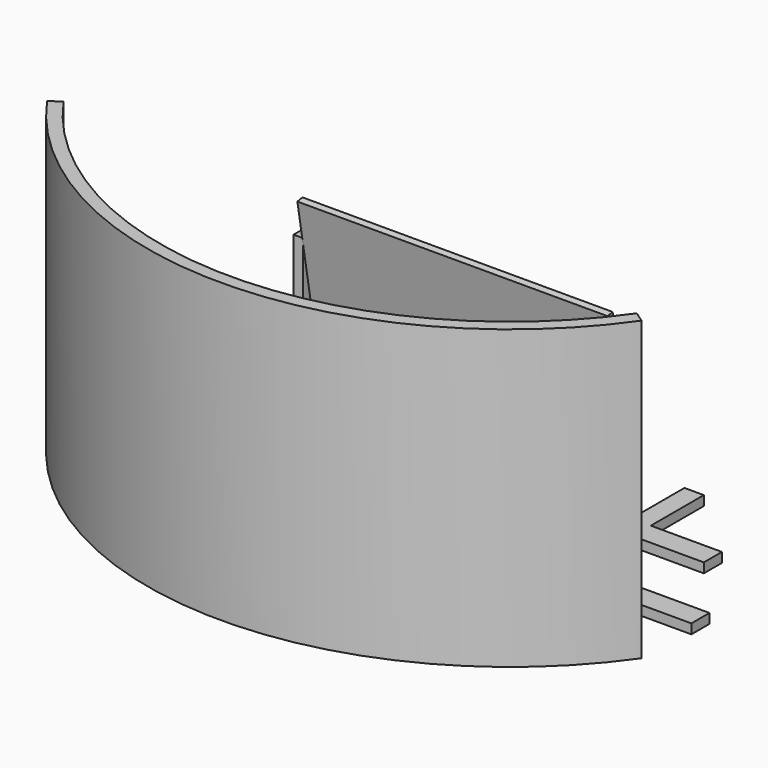
from build123d import *

# Parameters (mm, degrees)
F1_DEPTH  = 1168.4
F2_W      = 101.6
F2_H      = 1219.2
F3_DEPTH  = 25.4
F4_W      = 304.8
F4_H      = 304.8
F5_DEPTH  = 101.6
F6_R      = 31.75
F7_DEPTH  = 25.4
F8_W      = 2438.4
F8_H      = 88.9
F9_DEPTH  = 38.1
F10_W     = 76.2
F10_H     = 260.35
F10_W_2   = 1219.2
F10_H_2   = 88.9
F10_W_3   = 279.4
F11_DEPTH = 38.1
F12_W     = 38.1
F12_H     = 88.9
F13_DEPTH = 609.6
F14_R     = 12.7
F15_DEPTH = 1866.901
F19_W     = 1219.2
F19_H     = 698.5
F20_DEPTH = 12.7


with BuildPart() as f1:
    # F0 (on Top) → F1 (new body)
    with BuildSketch(Plane.XY):
        with BuildLine():
            Line((-1126.7334323923, -174.1390787519), (-1168.4, -203.2))
            ThreePointArc((-1168.4, -203.2), (0, -812.8), (1168.4, -203.2))
            Line((1168.4, -203.2), (1126.7334323923, -174.1390787519))
            ThreePointArc((1126.7334323923, -174.1390787519), (0, -762), (-1126.7334323923, -174.1390787519))
        make_face()
    extrude(amount=F1_DEPTH)


with BuildPart() as f3:
    # F2 (on Top) → F3 (new body)
    with BuildSketch(Plane.XY):
        with Locations((0, -151.4603874385)):
            Rectangle(F2_W, F2_H)
    extrude(amount=F3_DEPTH)


with BuildPart() as f5:
    # F4 (on face) → F5 (new body)
    with BuildSketch(Plane.XY.offset(25.4)):
        with Locations((0, -512.0104551315)):
            Rectangle(F4_W, F4_H)
    extrude(amount=F5_DEPTH)

    # F6 (on face) → F7 (join)
    with BuildSketch(Plane(origin=(0, -359.6104551315, 0), x_dir=(-1, 0, 0), z_dir=(0, 1, 0))):
        with Locations((-76.2, 76.2)):
            Circle(F6_R)
    extrude(amount=F7_DEPTH)


with BuildPart() as f9:
    # F8 (on face) → F9 (new body)
    with BuildSketch(Plane.XY.offset(25.4)):
        with Locations((0, 22.7109212481)):
            Rectangle(F8_W, F8_H)
    extrude(amount=F9_DEPTH)


with BuildPart() as f11:
    # F10 (on Top) → F11 (new body)
    with BuildSketch(Plane.XY):
        with Locations((647.7, 226.7495486736)):
            Rectangle(F10_W, F10_H)
        with Locations((0, 401.3745486736)):
            Rectangle(F10_W_2, F10_H_2)
        with Locations((647.7, 401.3745486736)):
            Rectangle(F10_W, F10_H_2)
        with Locations((825.5, 401.3745486736)):
            Rectangle(F10_W_3, F10_H_2)
        with Locations((647.7, 575.9995486736)):
            Rectangle(F10_W, F10_H)
        with Locations((-647.7, 401.3745486736)):
            Rectangle(F10_W, F10_H_2)
        with Locations((-647.7, 226.7495486736)):
            Rectangle(F10_W, F10_H)
        with Locations((-647.7, 575.9995486736)):
            Rectangle(F10_W, F10_H)
        with Locations((-825.5, 401.3745486736)):
            Rectangle(F10_W_3, F10_H_2)
    extrude(amount=F11_DEPTH)

    # F12 (on face) → F13 (join)
    with BuildSketch(Plane.XY.offset(38.1)):
        with Locations((628.65, 401.3745486736)):
            Rectangle(F12_W, F12_H)
        with Locations((-628.65, 401.3745486736)):
            Rectangle(F12_W, F12_H)
    extrude(amount=F13_DEPTH)

    # F14 (on face) → F15 (cut, through all)
    with BuildSketch(Plane.YZ.offset(647.7)):
        with Locations((401.3745486736, 444.5)):
            Circle(F14_R)
    extrude(amount=-F15_DEPTH, mode=Mode.SUBTRACT)


with BuildPart() as f20:
    # F19 (on line) → F20 (new body, symmetric)
    with BuildSketch(Plane(origin=(0, 465.2856019709, 82.0424053626), x_dir=(1, 0, 0), z_dir=(0, -0.984807753, -0.1736481777))):
        with Locations((0, 368.0490872749)):
            Rectangle(F19_W, F19_H)
    extrude(amount=F20_DEPTH, both=True)


solid = Compound([f1.part, f3.part, f5.part, f9.part, f11.part, f20.part])
